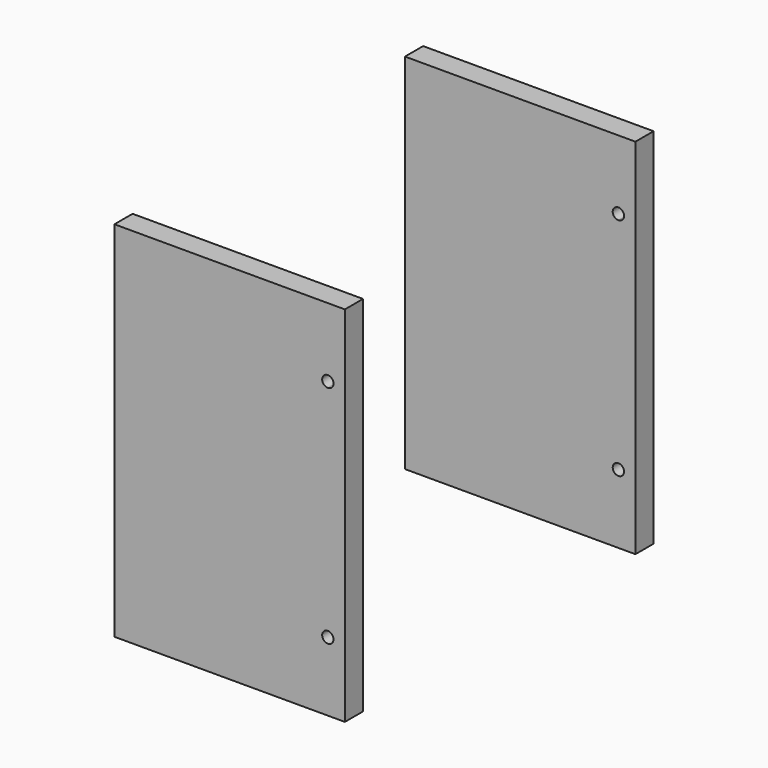
from build123d import *

# Parameters (mm, degrees)
F1_DEPTH = 25.4


with BuildPart() as f1:
    # F0 (on Front) → F1 (new body)
    with BuildSketch(Plane.XZ):
        Polygon((19.05, -203.2), (19.05, -125.984), (19.05, 0), (19.05, 203.2), (-238.815263, 203.2), (-238.815263, -203.2), align=None)
        with BuildLine():
            ThreePointArc((6.35, -125.984), (-4.490128, -130.474128), (0, -119.634))
            ThreePointArc((0, -119.634), (4.490128, -121.493872), (6.35, -125.984))
        make_face(mode=Mode.SUBTRACT)
        with BuildLine():
            ThreePointArc((6.35, 125.984), (4.490128, 121.493872), (0, 119.634))
            ThreePointArc((0, 119.634), (-4.490128, 130.474128), (6.35, 125.984))
        make_face(mode=Mode.SUBTRACT)
    extrude(amount=F1_DEPTH)


with BuildPart() as f2_1:
    # F2: copy of F1
    add(f1.part.moved(Location((0, 406.4, 0))))


solid = Compound([f1.part, f2_1.part])
